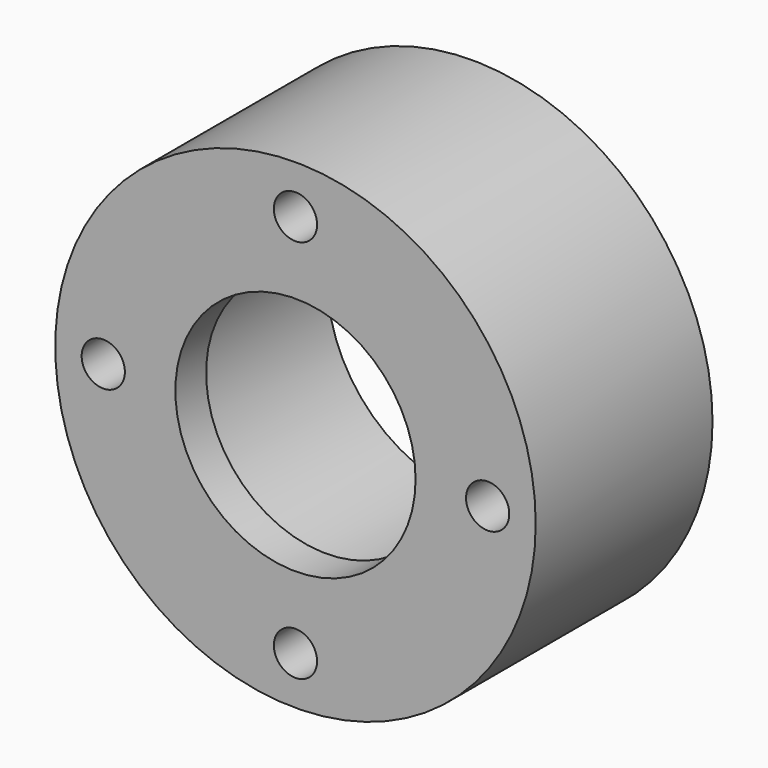
from build123d import *

# Parameters (mm, degrees)
F0_R     = 25
F0_R_2   = 12.5
F1_DEPTH = 23
F2_R     = 15.1
F3_DEPTH = 19
F4_R     = 2.25
F5_DEPTH = 25


with BuildPart() as f1:
    # F0 (on Front) → F1 (new body)
    with BuildSketch(Plane.XZ):
        Circle(F0_R)
        Circle(F0_R_2, mode=Mode.SUBTRACT)
    extrude(amount=F1_DEPTH)

    # F2 (on Front) → F3 (cut)
    with BuildSketch(Plane.XZ):
        Circle(F2_R)
    extrude(amount=F3_DEPTH, mode=Mode.SUBTRACT)

    # F4 (on face) → F5 (cut)
    with BuildSketch(Plane(origin=(0, 0, 0), x_dir=(-1, 0, 0), z_dir=(0, 1, 0))):
        with Locations((20, 0)):
            Circle(F4_R)
        with Locations((0, -20)):
            Circle(F4_R)
        with Locations((-20, 0)):
            Circle(F4_R)
        with Locations((0, 20)):
            Circle(F4_R)
    extrude(amount=-F5_DEPTH, mode=Mode.SUBTRACT)


solid = f1.part
